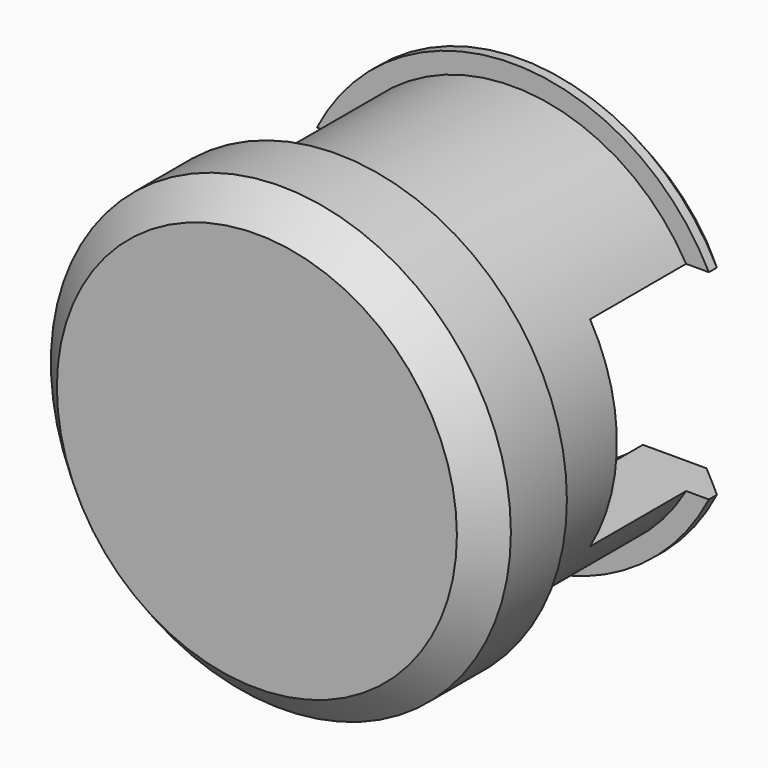
from build123d import *

# Parameters (mm, degrees)
F0_R     = 11.5
F1_DEPTH = 5
F2_R     = 10
F3_DEPTH = 11
F4_R     = 11
F5_DEPTH = 2
F6_SIZE  = 1.5
F7_SIZE  = 1.5
F9_DEPTH = 8


with BuildPart() as f1:
    # F0 (on Front) → F1 (new body)
    with BuildSketch(Plane.XZ):
        Circle(F0_R)
    extrude(amount=F1_DEPTH)

    # F2 (on face) → F3 (join)
    with BuildSketch(Plane(origin=(0, 0, 0), x_dir=(-1, 0, 0), z_dir=(0, 1, 0))):
        Circle(F2_R)
    extrude(amount=F3_DEPTH)

    # F4 (on face) → F5 (join)
    with BuildSketch(Plane(origin=(0, 11, 0), x_dir=(-1, 0, 0), z_dir=(0, 1, 0))):
        Circle(F4_R)
    extrude(amount=F5_DEPTH)

    # F6
    f6_edges = [f1.edges().sort_by_distance(p)[0] for p in [
        (11, 13, 0),
    ]]
    chamfer(f6_edges, length=F6_SIZE)

    # F7
    f7_edges = [f1.edges().sort_by_distance(p)[0] for p in [
        (-11.5, -5, 0),
    ]]
    chamfer(f7_edges, length=F7_SIZE)

    # F8 (on face) → F9 (cut)
    with BuildSketch(Plane(origin=(0, 13, 0), x_dir=(-1, 0, 0), z_dir=(0, 1, 0))):
        with BuildLine():
            Line((-8.077747, 5), (-17.5, 5))
            Line((-17.5, 5), (-17.5, -5))
            Line((-17.5, -5), (-8.077747, -5))
            ThreePointArc((-8.077747, -5), (-9.5, 0), (-8.077747, 5))
        make_face()
        with BuildLine():
            Line((17.5, 5), (8.077747, 5))
            ThreePointArc((8.077747, 5), (9.137522, 2.599173), (9.5, 0))
            ThreePointArc((9.5, 0), (9.137522, -2.599173), (8.077747, -5))
            Line((8.077747, -5), (17.5, -5))
            Line((17.5, -5), (17.5, 5))
        make_face()
        with BuildLine():
            Line((-4.898979, 5), (-8.077747, 5))
            ThreePointArc((-8.077747, 5), (-9.5, 0), (-8.077747, -5))
            Line((-8.077747, -5), (-4.898979, -5))
            ThreePointArc((-4.898979, -5), (0, -7), (4.898979, -5))
            Line((4.898979, -5), (8.077747, -5))
            ThreePointArc((8.077747, -5), (9.137522, -2.599173), (9.5, 0))
            ThreePointArc((9.5, 0), (9.137522, 2.599173), (8.077747, 5))
            Line((8.077747, 5), (4.898979, 5))
            ThreePointArc((4.898979, 5), (0, 7), (-4.898979, 5))
        make_face()
    extrude(amount=-F9_DEPTH, mode=Mode.SUBTRACT)


solid = f1.part
